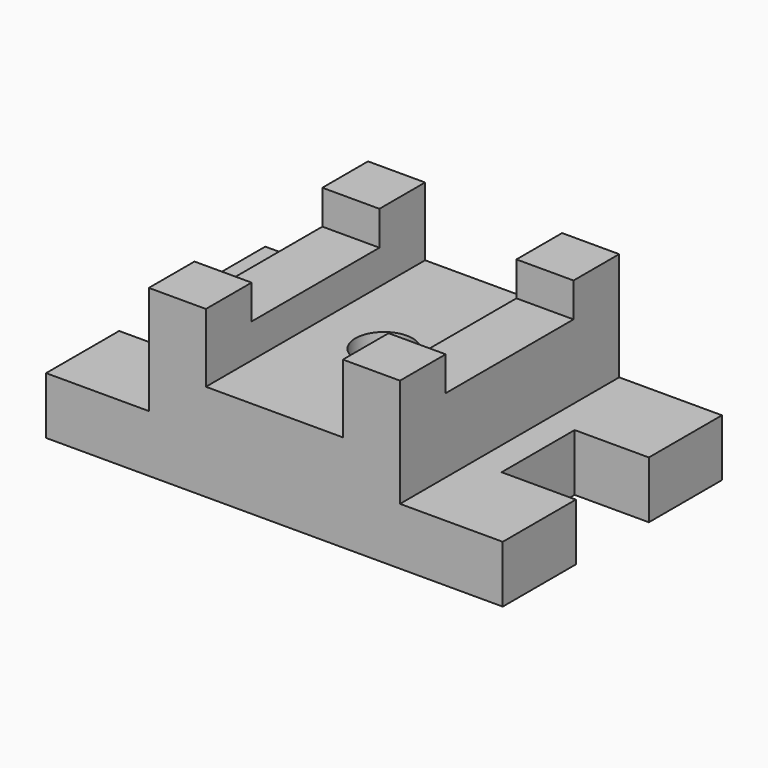
from build123d import *

# Parameters (mm, degrees)
F0_W     = 31.75
F0_H     = 31.75
F1_DEPTH = 92.075
F0_R     = 15.875
F2_DEPTH = 53.975
F3_DEPTH = 34.925
F0_H_2   = 88.9
F4_DEPTH = 73.025
F5_DEPTH = 31.75


with BuildPart() as f1:
    # F0 (on Top) → F1 (new body)
    with BuildSketch(Plane.XY):
        with Locations((-45.519012, 57.172301)):
            Rectangle(F0_W, F0_H)
        with Locations((-45.519012, -63.477699)):
            Rectangle(F0_W, F0_H)
        with Locations((62.430988, 57.172301)):
            Rectangle(F0_W, F0_H)
        with Locations((62.430988, -63.477699)):
            Rectangle(F0_W, F0_H)
    extrude(amount=F1_DEPTH)

    # F0 (on Top) → F2 (join)
    with BuildSketch(Plane.XY):
        Polygon((-29.644012, -47.602699), (-29.644012, -79.352699), (46.555988, -79.352699), (46.555988, -47.602699), (46.555988, 41.297301), (46.555988, 73.047301), (-29.644012, 73.047301), (-29.644012, 41.297301), align=None)
        with Locations((8.455988, -3.152699)):
            Circle(F0_R, mode=Mode.SUBTRACT)
    extrude(amount=F2_DEPTH)

    # F0 (on Top) → F3 (join)
    with BuildSketch(Plane.XY):
        with Locations((8.455988, -3.152699)):
            Circle(F0_R)
    extrude(amount=F3_DEPTH)



with BuildPart() as f4:
    # F0 (on Top) → F4 (new body)
    with BuildSketch(Plane.XY):
        with Locations((-45.519012, -3.152699)):
            Rectangle(F0_W, F0_H_2)
        with Locations((62.430988, -3.152699)):
            Rectangle(F0_W, F0_H_2)
    extrude(amount=F4_DEPTH)


with BuildPart() as f1_1:
    add(f1.part)

    add(f4.part)  # F5 merges F4
    # F0 (on Top) → F5 (join)
    with BuildSketch(Plane.XY):
        Polygon((-118.544012, -28.552699), (-118.544012, -79.352699), (-61.394012, -79.352699), (-61.394012, -47.602699), (-61.394012, 41.297301), (-61.394012, 73.047301), (-118.544012, 73.047301), (-118.544012, 22.247301), (-77.269012, 22.247301), (-77.269012, -28.552699), align=None)
        Polygon((78.305988, -47.602699), (78.305988, -79.352699), (135.455988, -79.352699), (135.455988, -28.552699), (94.180988, -28.552699), (94.180988, 22.247301), (135.455988, 22.247301), (135.455988, 73.047301), (78.305988, 73.047301), (78.305988, 41.297301), align=None)
    extrude(amount=F5_DEPTH)


solid = f1_1.part
